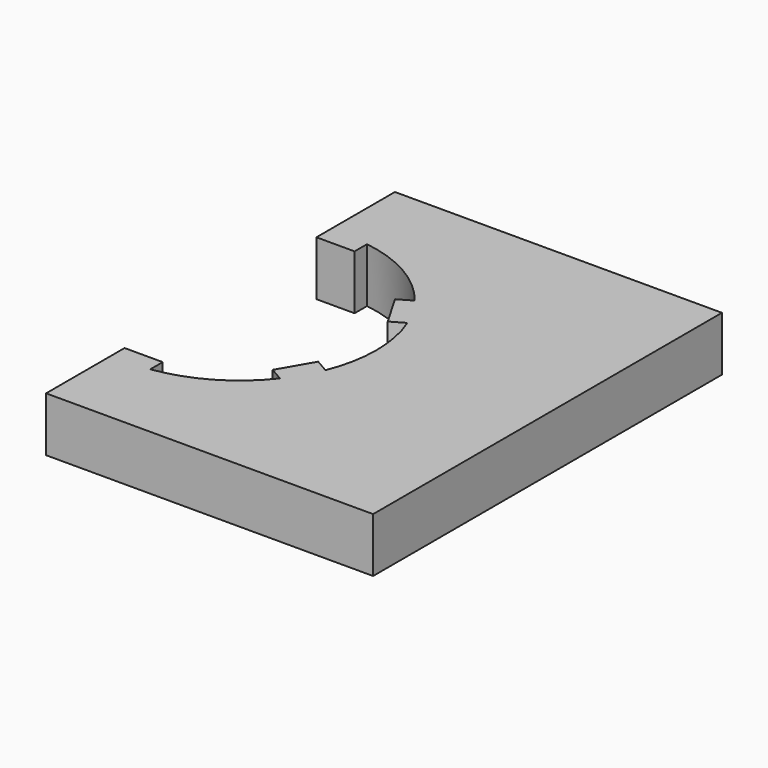
from build123d import *

# Parameters (mm, degrees)
F2_DEPTH = 6.35


with BuildPart() as f2:
    # F1 (on Top) → F2 (new body)
    with BuildSketch(Plane.XY):
        with BuildLine():
            Line((-2.2225, 15.782784), (-2.2225, 13.97))
            Line((-2.2225, 13.97), (2.2225, 13.97))
            Line((2.2225, 13.97), (2.2225, 15.782784))
            ThreePointArc((2.2225, 15.782784), (7.96925, 13.803146), (12.557042, 9.816134))
            Line((12.557042, 9.816134), (10.987125, 8.909741))
            Line((10.987125, 8.909741), (13.209625, 5.060259))
            Line((13.209625, 5.060259), (14.779542, 5.966651))
            ThreePointArc((14.779542, 5.966651), (15.9385, 0), (14.779542, -5.966651))
            Line((14.779542, -5.966651), (13.209625, -5.060259))
            Line((13.209625, -5.060259), (10.987125, -8.909741))
            Line((10.987125, -8.909741), (12.557042, -9.816134))
            ThreePointArc((12.557042, -9.816134), (7.96925, -13.803146), (2.2225, -15.782784))
            Line((2.2225, -15.782784), (2.2225, -13.97))
            Line((2.2225, -13.97), (-2.2225, -13.97))
            Line((-2.2225, -13.97), (-2.2225, -15.782784))
            Line((-2.2225, -15.782784), (-2.2225, -25.4))
            Line((-2.2225, -25.4), (35.8775, -25.4))
            Line((35.8775, -25.4), (35.8775, 25.4))
            Line((35.8775, 25.4), (-2.2225, 25.4))
            Line((-2.2225, 25.4), (-2.2225, 15.782784))
        make_face()
    extrude(amount=F2_DEPTH)


solid = f2.part
